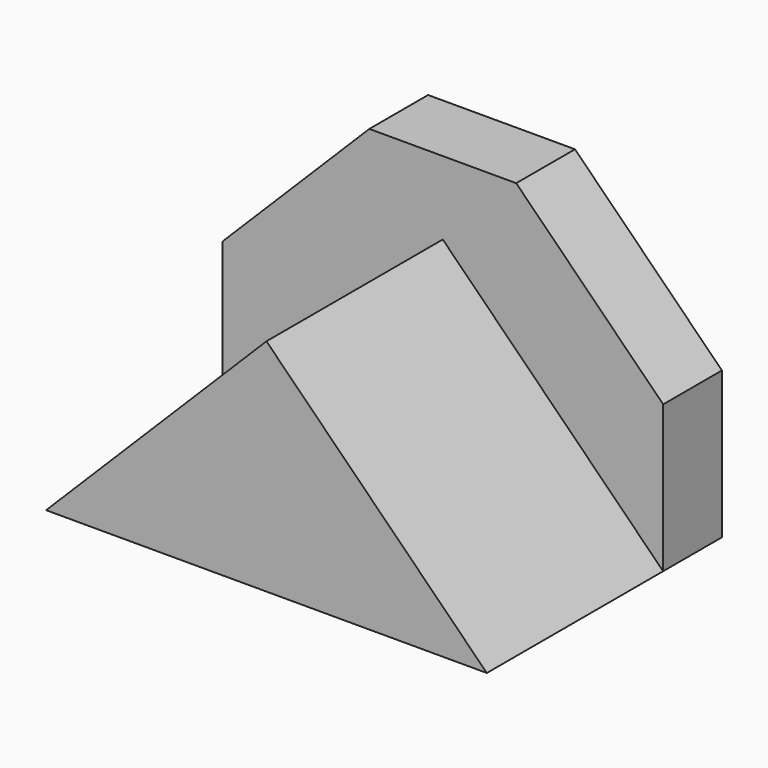
from build123d import *

# Parameters (mm, degrees)
F0_W     = 38.1
F0_H     = 12.7
F1_DEPTH = 50.8
F2_DEPTH = 38.1


with BuildPart() as f1:
    # F0 (on Front) → F1 (new body)
    with BuildSketch(Plane.XZ):
        Polygon((0, 25.4), (0, 0), (38.1, 38.1), (76.2, 0), (76.2, 25.4), (50.8, 50.8), (25.4, 50.8), align=None)
        Polygon((38.1, 38.1), (0, 0), (19.05, 0), (19.05, 12.7), (57.15, 12.7), (57.15, 0), (76.2, 0), align=None)
        with Locations((38.1, 6.35)):
            Rectangle(F0_W, F0_H)
    extrude(amount=-F1_DEPTH)

    # F0 (on Front) → F2 (cut)
    with BuildSketch(Plane.XZ):
        Polygon((0, 25.4), (0, 0), (38.1, 38.1), (76.2, 0), (76.2, 25.4), (50.8, 50.8), (25.4, 50.8), align=None)
    extrude(amount=-F2_DEPTH, mode=Mode.SUBTRACT)


solid = f1.part
